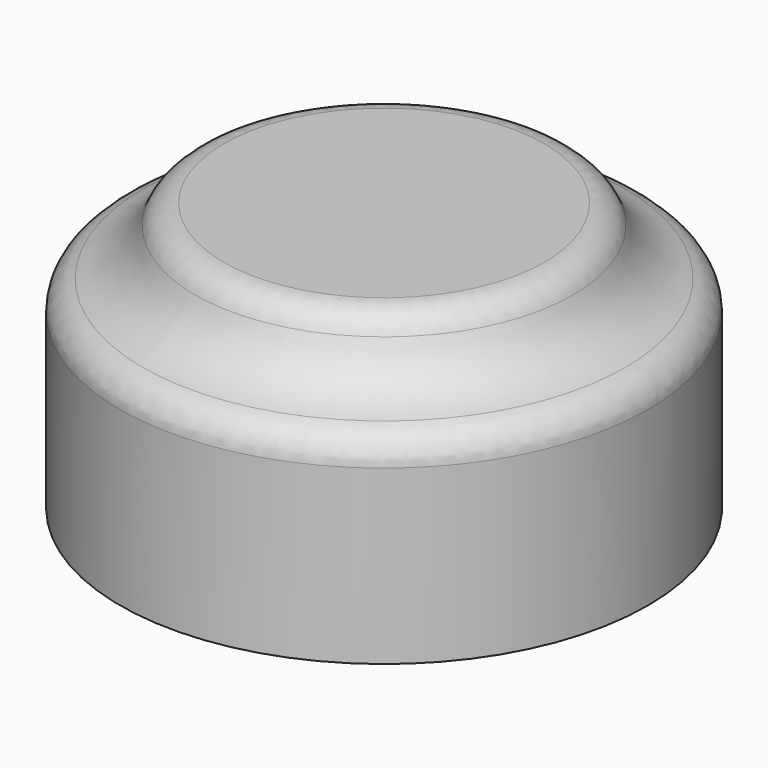
from build123d import *

# Parameters (mm, degrees)
F3_R = 5.08
F4_R = 5.08


with BuildPart() as f2:
    # F0 (on Front) → F2 (revolve)
    with BuildSketch(Plane.XZ):
        with BuildLine():
            Line((30.48, 18.0614531664), (0, 18.0614531664))
            Line((0, 18.0614531664), (0, -26.3885468336))
            Line((0, -26.3885468336), (43.688, -26.3885468336))
            Line((43.688, -26.3885468336), (43.688, 6.6314531664))
            ThreePointArc((43.688, 6.6314531664), (34.8601557432, 9.7766775807), (30.48, 18.0614531664))
        make_face()
    revolve(axis=Axis((0, 0, -49.3586864322), (0, 0, -1)))

    # F3
    f3_edges = [f2.edges().sort_by_distance(p)[0] for p in [
        (-30.48, 0, 18.061453),
    ]]
    fillet(f3_edges, radius=F3_R)

    # F4
    f4_edges = [f2.edges().sort_by_distance(p)[0] for p in [
        (-43.688, 0, 6.631453),
    ]]
    fillet(f4_edges, radius=F4_R)


solid = f2.part
